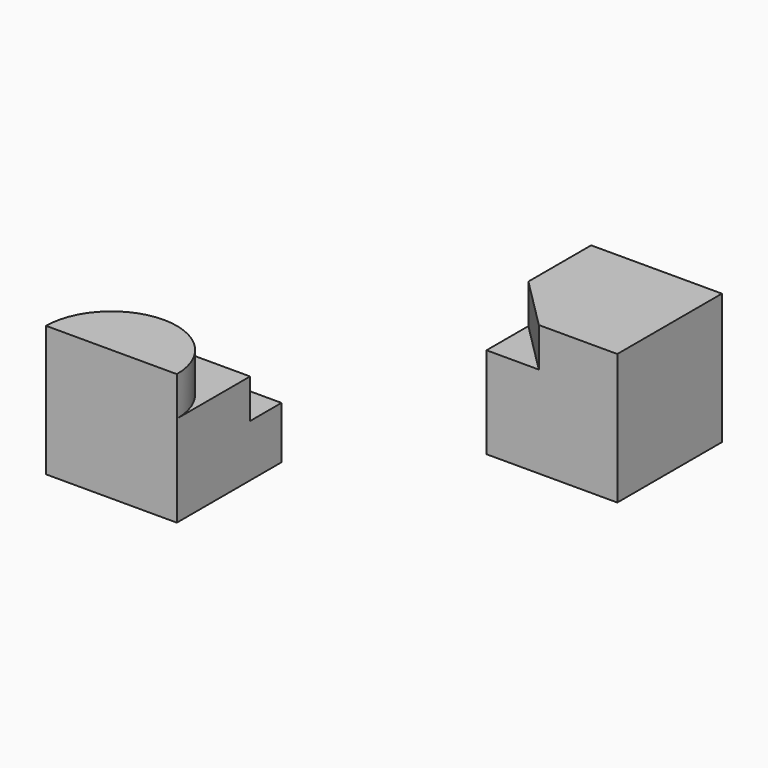
from build123d import *

# Parameters (mm, degrees)
F1_DEPTH = 100
F2_DEPTH = 70
F3_W     = 100
F3_H     = 30
F4_DEPTH = 40
F5_DEPTH = 70
F6_DEPTH = 100


with BuildPart() as f1:
    # F0 (on Top) → F1 (new body)
    with BuildSketch(Plane.XY):
        Polygon((-60, 0), (0, 0), (0, 100), (-100, 100), (-100, 40), align=None)
    extrude(amount=F1_DEPTH)

    # F0 (on Top) → F2 (join)
    with BuildSketch(Plane.XY):
        Polygon((-100, 0), (-60, 0), (-100, 40), align=None)
        Polygon((-60, 0), (0, 0), (0, 100), (-100, 100), (-100, 40), align=None)
    extrude(amount=F2_DEPTH)


with BuildPart() as f4:
    # F3 (on Top) → F4 (new body)
    with BuildSketch(Plane.XY):
        with Locations((-239.100334983, -99.6214152873)):
            Rectangle(F3_W, F3_H)
    extrude(amount=F4_DEPTH)

    # F3 (on Top) → F5 (join)
    with BuildSketch(Plane.XY):
        with BuildLine():
            Line((-189.100334983, -184.6214152873), (-189.100334983, -114.6214152873))
            Line((-189.100334983, -114.6214152873), (-289.100334983, -114.6214152873))
            Line((-289.100334983, -114.6214152873), (-289.100334983, -184.6214152873))
            ThreePointArc((-289.100334983, -184.6214152873), (-239.100334983, -134.6214152873), (-189.100334983, -184.6214152873))
        make_face()
    extrude(amount=F5_DEPTH)

    # F3 (on Top) → F6 (join)
    with BuildSketch(Plane.XY):
        with BuildLine():
            Line((-289.100334983, -184.6214152873), (-189.100334983, -184.6214152873))
            ThreePointArc((-189.100334983, -184.6214152873), (-239.100334983, -134.6214152873), (-289.100334983, -184.6214152873))
        make_face()
    extrude(amount=F6_DEPTH)


solid = Compound([f1.part, f4.part])
